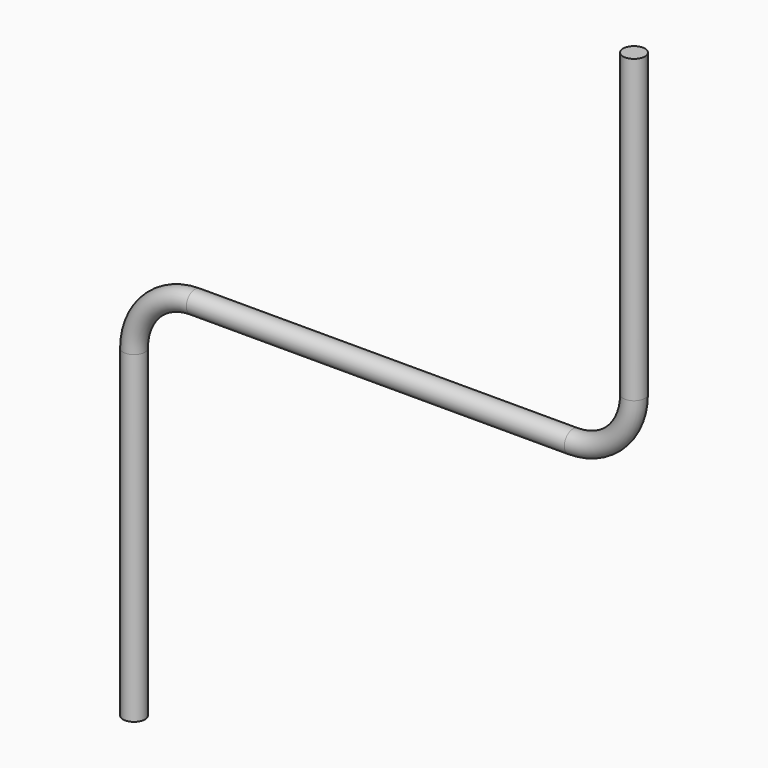
from build123d import *

# Parameters (mm, degrees)
F1_R = 2.262364


with BuildPart() as f2:
    # F2: sweep along a path in F0
    with BuildLine(Plane.XZ) as f2_path:
        Line((0, 0), (0, 67.300271))
        ThreePointArc((0, 67.300271), (3.719744, 76.280527), (12.7, 80.000271))
        Line((12.7, 80.000271), (91.384958, 80.000271))
        ThreePointArc((91.384958, 80.000271), (100.365214, 83.720015), (104.084958, 92.700271))
        Line((104.084958, 92.700271), (104.084958, 155.349578))
    # F1 (on Top) → F2 (sweep)
    with BuildSketch(Plane.XY):
        Circle(F1_R)
    sweep(path=f2_path.line)


solid = f2.part
